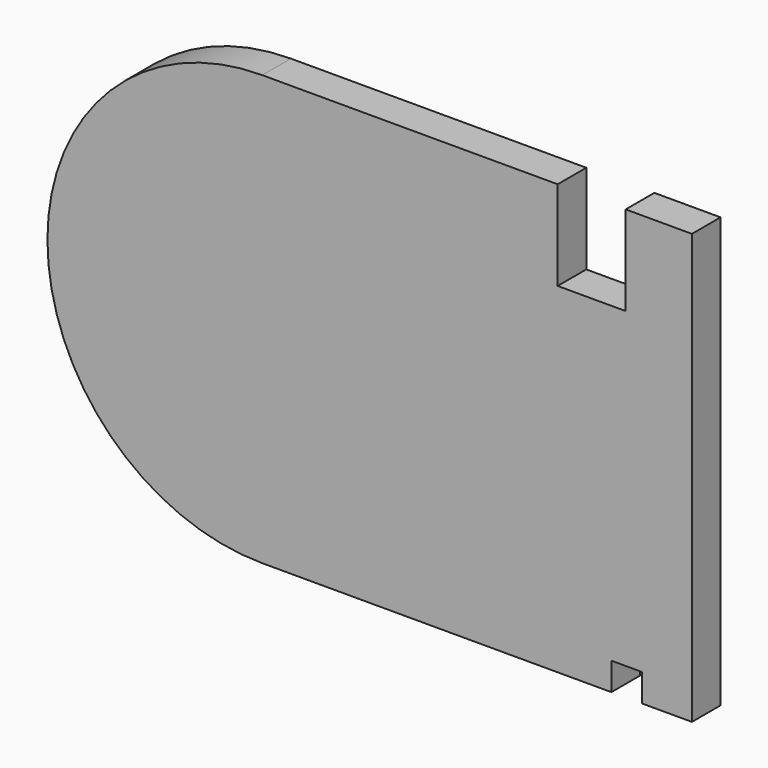
from build123d import *

# Parameters (mm, degrees)
PAD_DEPTH = 1


with BuildPart() as part:
    # Sketch → Pad (new body, symmetric)
    with BuildSketch(Plane.XZ):
        with BuildLine():
            Line((-15, -12), (4.5, -12))
            Line((4.5, -10.45), (4.5, -12))
            Line((6.2, -10.45), (4.5, -10.45))
            Line((6.2, -12), (6.2, -10.45))
            Line((6.2, -12), (9, -12))
            Line((9, -12), (9, 12))
            Line((9, 12), (5.3, 12))
            Line((5.3, 7), (5.3, 12))
            Line((1.5, 7), (5.3, 7))
            Line((1.5, 12), (1.5, 7))
            Line((1.5, 12), (-15, 12))
            ThreePointArc((-15, 12), (-27, 0), (-15, -12))
        make_face()
    extrude(amount=PAD_DEPTH, both=True)


solid = part.part
